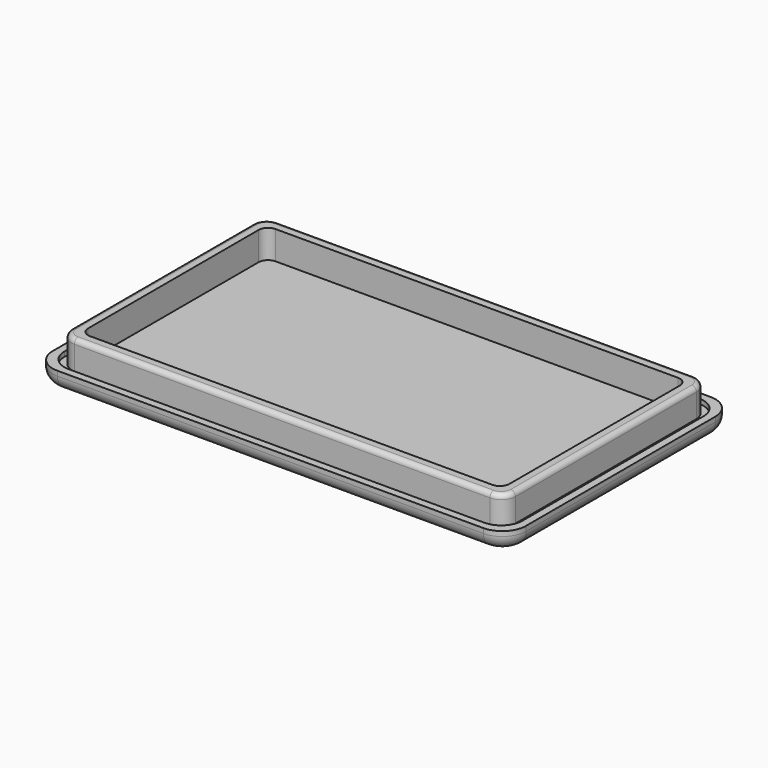
from build123d import *

# Parameters (mm, degrees)
SKETCH_W        = 100
SKETCH_H        = 60
PAD_DEPTH       = 4
FILLET_R        = 5
FILLET001_R     = 3
POCKET001_DEPTH = 1
PAD001_DEPTH    = 5
POCKET_DEPTH    = 6
FILLET002_R     = 1


with BuildPart() as part:
    # Sketch → Pad (new body)
    with BuildSketch(Plane.XY):
        with Locations((50, 30)):
            Rectangle(SKETCH_W, SKETCH_H)
    extrude(amount=PAD_DEPTH)

    # Fillet
    fillet_edges = [part.edges().sort_by_distance(p)[0] for p in [
        (100, 0, 2),
        (0, 0, 2),
        (100, 60, 2),
        (0, 60, 2),
    ]]
    fillet(fillet_edges, radius=FILLET_R)

    # Fillet001
    fillet001_edges = [part.edges().sort_by_distance(p)[0] for p in [
        (50, 60, 0),
    ]]
    fillet(fillet001_edges, radius=FILLET001_R)

    # Sketch008 (on Face6 of Pad) → Pocket001 (cut)
    with BuildSketch(Plane.XY.offset(4)):
        with BuildLine():
            Line((6.1, 1.6), (93.9, 1.6))
            ThreePointArc((93.9, 1.6), (97.081981, 2.918019), (98.4, 6.1))
            Line((98.4, 6.1), (98.4, 53.9))
            ThreePointArc((98.4, 53.9), (97.081981, 57.081981), (93.9, 58.4))
            Line((93.9, 58.4), (6.1, 58.4))
            ThreePointArc((6.1, 58.4), (2.918019, 57.081981), (1.6, 53.9))
            Line((1.6, 53.9), (1.6, 6.1))
            ThreePointArc((1.6, 6.1), (2.918019, 2.918019), (6.1, 1.6))
        make_face()
        with BuildLine():
            Line((6.1, 3.1), (93.9, 3.1))
            ThreePointArc((93.9, 3.1), (96.02132, 3.97868), (96.9, 6.1))
            Line((96.9, 6.1), (96.9, 53.9))
            ThreePointArc((96.9, 53.9), (96.02132, 56.02132), (93.9, 56.9))
            Line((93.9, 56.9), (6.1, 56.9))
            ThreePointArc((6.1, 56.9), (3.97868, 56.02132), (3.1, 53.9))
            Line((3.1, 53.9), (3.1, 6.1))
            ThreePointArc((3.1, 6.1), (3.97868, 3.97868), (6.1, 3.1))
        make_face(mode=Mode.SUBTRACT)
    extrude(amount=-POCKET001_DEPTH, mode=Mode.SUBTRACT)

    # Sketch001 (on Face6 of Pad) → Pad001 (join)
    with BuildSketch(Plane.XY.offset(4)):
        with BuildLine():
            Line((6.1, 3.1), (93.9, 3.1))
            ThreePointArc((93.9, 3.1), (96.02132, 3.97868), (96.9, 6.1))
            Line((96.9, 6.1), (96.9, 53.9))
            ThreePointArc((96.9, 53.9), (96.02132, 56.02132), (93.9, 56.9))
            Line((93.9, 56.9), (6.1, 56.9))
            ThreePointArc((6.1, 56.9), (3.97868, 56.02132), (3.1, 53.9))
            Line((3.1, 53.9), (3.1, 6.1))
            ThreePointArc((3.1, 6.1), (3.97868, 3.97868), (6.1, 3.1))
        make_face()
    extrude(amount=PAD001_DEPTH)

    # Sketch009 (on Face44 of Pad001) → Pocket (cut)
    with BuildSketch(Plane.XY.offset(9)):
        with BuildLine():
            Line((7.5, 5.5), (92.5, 5.5))
            ThreePointArc((92.5, 5.5), (93.914214, 6.085786), (94.5, 7.5))
            Line((94.5, 7.5), (94.5, 52.5))
            ThreePointArc((94.5, 52.5), (93.914214, 53.914214), (92.5, 54.5))
            Line((92.5, 54.5), (7.5, 54.5))
            ThreePointArc((7.5, 54.5), (6.085786, 53.914214), (5.5, 52.5))
            Line((5.5, 52.5), (5.5, 7.5))
            ThreePointArc((5.5, 7.5), (6.085786, 6.085786), (7.5, 5.5))
        make_face()
    extrude(amount=-POCKET_DEPTH, mode=Mode.SUBTRACT)

    # Fillet002
    fillet002_edges = [part.edges().sort_by_distance(p)[0] for p in [
        (50, 3.1, 9),
    ]]
    fillet(fillet002_edges, radius=FILLET002_R)


solid = part.part
